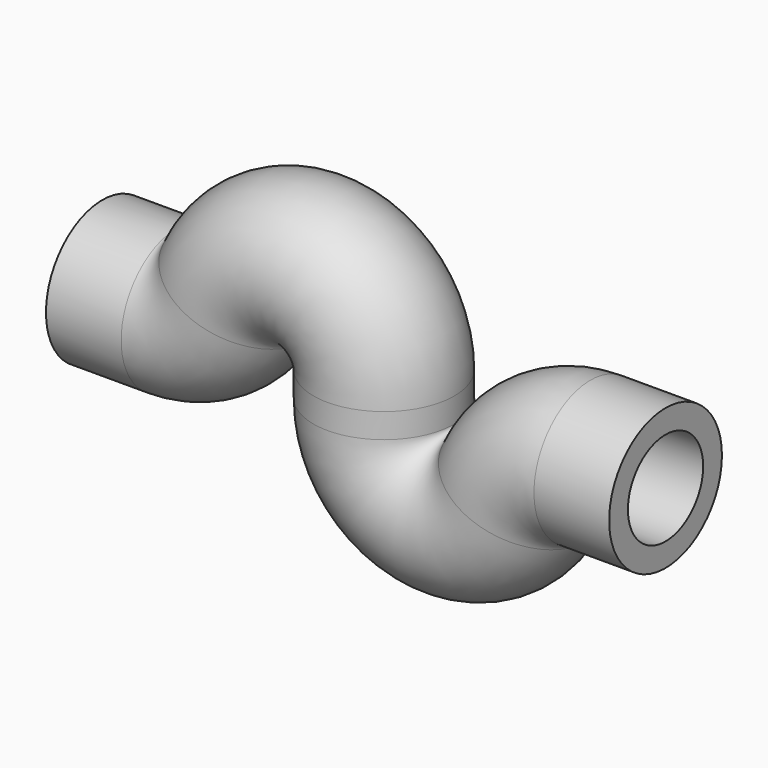
from build123d import *

# Parameters (mm, degrees)
F2_R   = 1.2515
F2_R_2 = 0.835


with BuildPart() as f3:
    # F3: sweep along a path in F0
    with BuildLine(Plane.XZ) as f3_path:
        Line((-5, 0), (-3.665079, 0))
        ThreePointArc((-3.665079, 0), (-2.962228, 0.206382), (-2.48254, 0.76))
        ThreePointArc((-2.48254, 0.76), (-1.023686, 1.490296), (0, 0.22))
        Line((0, 0.22), (0, 0))
        Line((0, 0), (0, -0.22))
        ThreePointArc((0, -0.22), (1.023686, -1.490296), (2.48254, -0.76))
        ThreePointArc((2.48254, -0.76), (2.962228, -0.206382), (3.665079, 0))
        Line((3.665079, 0), (5, 0))
    # F2 (on plane+point) → F3 (sweep)
    with BuildSketch(Plane.YZ.offset(-5)):
        Circle(F2_R)
        Circle(F2_R_2, mode=Mode.SUBTRACT)
    sweep(path=f3_path.line)


solid = f3.part
